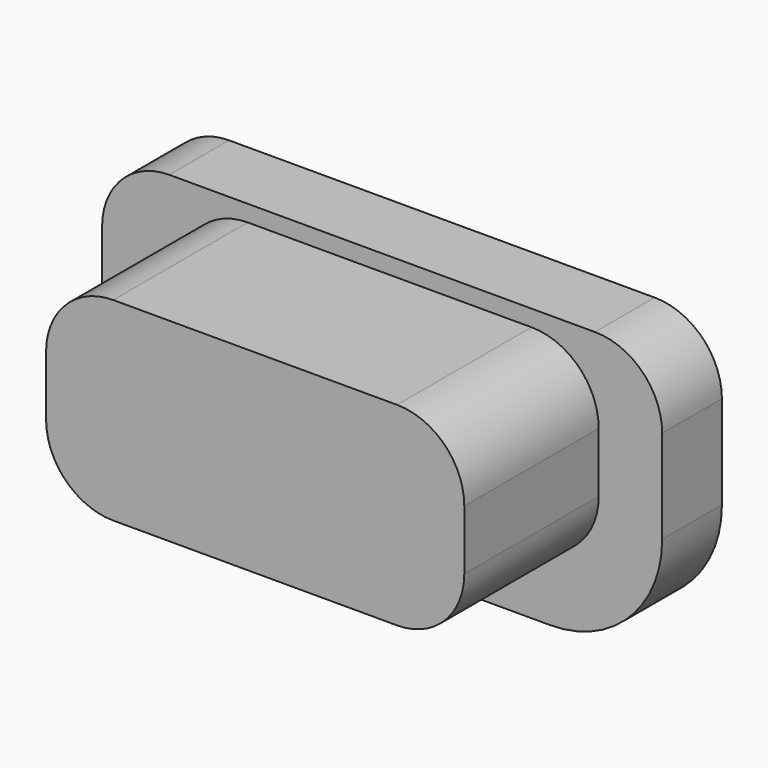
from build123d import *

# Parameters (mm, degrees)
EXTRUDE015_DEPTH = 1
EXTRUDE014_DEPTH = 2.75


with BuildPart() as extrude015:
    # Sketch015 → Extrude015 (new body)
    with BuildSketch(Plane.XZ):
        with BuildLine():
            ThreePointArc((11.7, 16.35), (11.063604, 16.086396), (10.8, 15.45))
            Line((10.8, 14.2), (10.8, 15.45))
            ThreePointArc((10.8, 14.2), (11.23934, 13.13934), (12.3, 12.7))
            Line((16.8, 12.7), (12.3, 12.7))
            ThreePointArc((16.8, 12.7), (17.86066, 13.13934), (18.3, 14.2))
            Line((18.3, 15.45), (18.3, 14.2))
            ThreePointArc((18.3, 15.45), (18.036396, 16.086396), (17.4, 16.35))
            Line((11.7, 16.35), (17.4, 16.35))
        make_face()
    extrude(amount=EXTRUDE015_DEPTH)


with BuildPart() as extrude015_1:
    # Extrude015 placement: moved
    add(extrude015.part.moved(Location((0, 2.5, 0))))


with BuildPart() as button1:
    # Sketch014 → Extrude014 (new body)
    with BuildSketch(Plane.XZ):
        with BuildLine():
            ThreePointArc((12.75, 16.13), (12.113604, 15.866396), (11.85, 15.23))
            Line((11.85, 14.43), (11.85, 15.23))
            ThreePointArc((11.85, 14.43), (12.113604, 13.793604), (12.75, 13.53))
            Line((16.55, 13.53), (12.75, 13.53))
            ThreePointArc((16.55, 13.53), (17.186396, 13.793604), (17.45, 14.43))
            Line((17.45, 15.23), (17.45, 14.43))
            ThreePointArc((17.45, 15.23), (17.186396, 15.866396), (16.55, 16.13))
            Line((12.75, 16.13), (16.55, 16.13))
        make_face()
    extrude(amount=EXTRUDE014_DEPTH)


with BuildPart() as button1_1:
    # Extrude014 placement: moved
    add(button1.part.moved(Location((0, 2, 0))))

    # Fusion018: union Extrude015
    add(extrude015_1.part)


solid = button1_1.part
